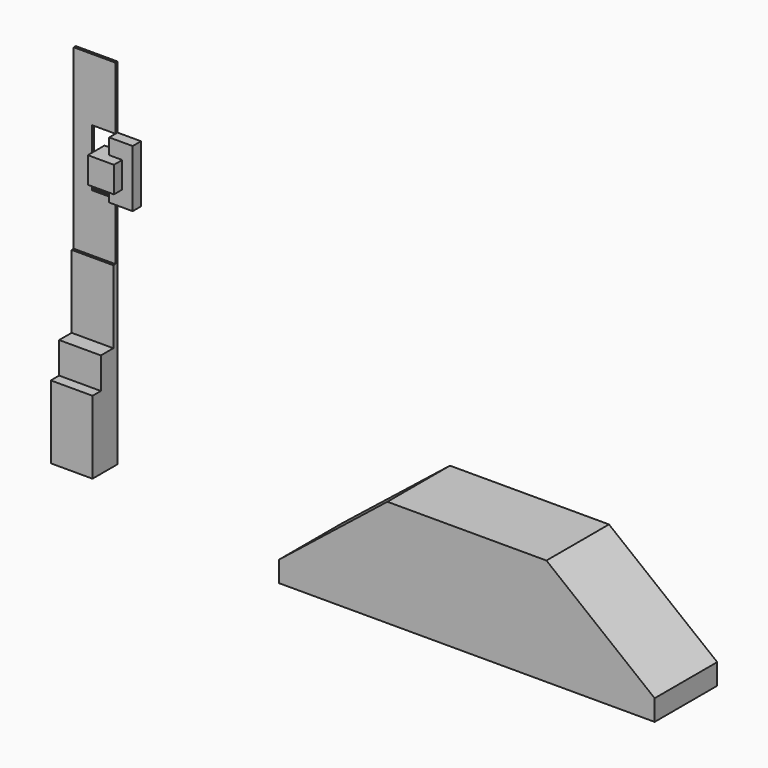
from build123d import *

# Parameters (mm, degrees)
F1_DEPTH = 190.5
F0_W     = 101.6
F0_H     = 177.8
F2_DEPTH = 76.2
F0_H_2   = 76.2
F3_DEPTH = 50.8
F4_DEPTH = 12.7
F5_DEPTH = 6.35
F0_W_2   = 31.75
F0_H_3   = 63.5
F6_DEPTH = 50.8
F7_DEPTH = 25.4


with BuildPart() as f1:
    # F0 (on Front) → F1 (new body)
    with BuildSketch(Plane.XZ):
        Polygon((0, 50.8), (0, 0), (914.4, 0), (914.4, 50.8), (650.875, 260.35), (263.525, 260.35), align=None)
    extrude(amount=F1_DEPTH)


with BuildPart() as f2:
    # F0 (on Front) → F2 (new body)
    with BuildSketch(Plane.XZ):
        with Locations((-596.9, 88.9)):
            Rectangle(F0_W, F0_H)
    extrude(amount=F2_DEPTH)

    # F0 (on Front) → F3 (join)
    with BuildSketch(Plane.XZ):
        with Locations((-596.9, 215.9)):
            Rectangle(F0_W, F0_H_2)
    extrude(amount=F3_DEPTH)

    # F0 (on Front) → F4 (join)
    with BuildSketch(Plane.XZ):
        with Locations((-596.9, 342.9)):
            Rectangle(F0_W, F0_H)
    extrude(amount=F4_DEPTH)

    # F0 (on Front) → F5 (join)
    with BuildSketch(Plane.XZ):
        Polygon((-647.7, 431.8), (-546.1, 431.8), (-546.1, 571.5), (-603.25, 571.5), (-603.25, 711.2), (-546.1, 711.2), (-546.1, 863.6), (-647.7, 863.6), align=None)
    extrude(amount=F5_DEPTH)



with BuildPart() as f6:
    # F0 (on Front) → F6 (new body)
    with BuildSketch(Plane.XZ):
        with Locations((-530.225, 641.35)):
            Rectangle(F0_W_2, F0_H_3)
        with Locations((-561.975, 641.35)):
            Rectangle(F0_W_2, F0_H_3)
    extrude(amount=F6_DEPTH)


with BuildPart() as f2_1:
    add(f2.part)

    add(f6.part)  # F7 merges F6
    # F0 (on Front) → F7 (join)
    with BuildSketch(Plane.XZ):
        Polygon((-546.1, 609.6), (-546.1, 571.5), (-488.95, 571.5), (-488.95, 711.2), (-546.1, 711.2), (-546.1, 673.1), (-514.35, 673.1), (-514.35, 609.6), align=None)
    extrude(amount=F7_DEPTH)


solid = Compound([f1.part, f2_1.part])
